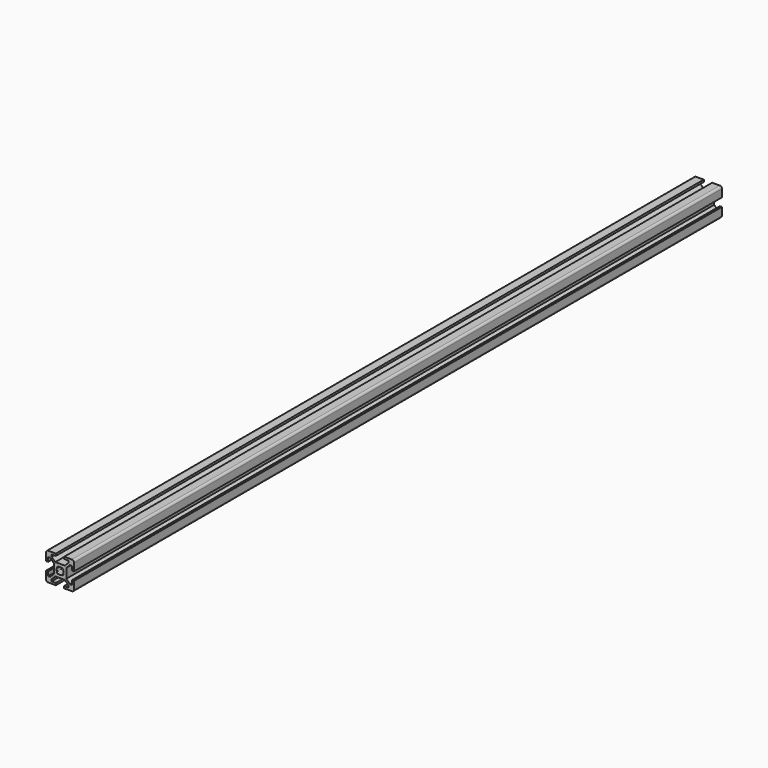
from build123d import *

# Parameters (mm, degrees)
F1_DEPTH = 580


with BuildPart() as f1:
    # F0 (on Front) → F1 (new body)
    with BuildSketch(Plane.XZ):
        with BuildLine():
            Line((3, -10), (8.5, -10))
            ThreePointArc((8.5, -10), (9.5606601718, -9.5606601718), (10, -8.5))
            Line((10, -8.5), (10, -3))
            Line((10, -3), (8.5, -3))
            Line((8.5, -3), (8.5, -6))
            Line((8.5, -6), (7.0606601718, -6))
            Line((7.0606601718, -6), (4.5, -3.4393398282))
            Line((4.5, -3.4393398282), (4.5, 3.4393398282))
            Line((4.5, 3.4393398282), (7.0606601718, 6))
            Line((7.0606601718, 6), (8.5, 6))
            Line((8.5, 6), (8.5, 3))
            Line((8.5, 3), (10, 3))
            Line((10, 3), (10, 8.5))
            ThreePointArc((10, 8.5), (9.5606601718, 9.5606601718), (8.5, 10))
            Line((8.5, 10), (3, 10))
            Line((3, 10), (3, 8.5))
            Line((3, 8.5), (6, 8.5))
            Line((6, 8.5), (6, 7.0606601718))
            Line((6, 7.0606601718), (3.4393398282, 4.5))
            Line((3.4393398282, 4.5), (-3.4393398282, 4.5))
            Line((-3.4393398282, 4.5), (-6, 7.0606601718))
            Line((-6, 7.0606601718), (-6, 8.5))
            Line((-6, 8.5), (-3, 8.5))
            Line((-3, 8.5), (-3, 10))
            Line((-3, 10), (-8.5, 10))
            ThreePointArc((-8.5, 10), (-9.5606601718, 9.5606601718), (-10, 8.5))
            Line((-10, 8.5), (-10, 3))
            Line((-10, 3), (-8.5, 3))
            Line((-8.5, 3), (-8.5, 6))
            Line((-8.5, 6), (-7.0606601718, 6))
            Line((-7.0606601718, 6), (-4.5, 3.4393398282))
            Line((-4.5, 3.4393398282), (-4.5, -3.4393398282))
            Line((-4.5, -3.4393398282), (-7.0606601718, -6))
            Line((-7.0606601718, -6), (-8.5, -6))
            Line((-8.5, -6), (-8.5, -3))
            Line((-8.5, -3), (-10, -3))
            Line((-10, -3), (-10, -8.5))
            ThreePointArc((-10, -8.5), (-9.5606601718, -9.5606601718), (-8.5, -10))
            Line((-8.5, -10), (-3, -10))
            Line((-3, -10), (-3, -8.5))
            Line((-3, -8.5), (-6, -8.5))
            Line((-6, -8.5), (-6, -7.0606601718))
            Line((-6, -7.0606601718), (-3.4393398282, -4.5))
            Line((-3.4393398282, -4.5), (3.4393398282, -4.5))
            Line((3.4393398282, -4.5), (6, -7.0606601718))
            Line((6, -7.0606601718), (6, -8.5))
            Line((6, -8.5), (3, -8.5))
            Line((3, -8.5), (3, -10))
        make_face()
        with BuildLine():
            ThreePointArc((-1.1560121095, 2.2166722813), (0, 2.5), (1.1560121095, 2.2166722813))
            Line((1.1560121095, 2.2166722813), (1.4393398282, 2.5))
            Line((1.4393398282, 2.5), (2.5, 1.4393398282))
            Line((2.5, 1.4393398282), (2.2166722813, 1.1560121095))
            ThreePointArc((2.2166722813, 1.1560121095), (2.5, 0), (2.2166722813, -1.1560121095))
            Line((2.2166722813, -1.1560121095), (2.5, -1.4393398282))
            Line((2.5, -1.4393398282), (1.4393398282, -2.5))
            Line((1.4393398282, -2.5), (1.1560121095, -2.2166722813))
            ThreePointArc((1.1560121095, -2.2166722813), (0, -2.5), (-1.1560121095, -2.2166722813))
            Line((-1.1560121095, -2.2166722813), (-1.4393398282, -2.5))
            Line((-1.4393398282, -2.5), (-2.5, -1.4393398282))
            Line((-2.5, -1.4393398282), (-2.2166722813, -1.1560121095))
            ThreePointArc((-2.2166722813, -1.1560121095), (-2.5, 0), (-2.2166722813, 1.1560121095))
            Line((-2.2166722813, 1.1560121095), (-2.5, 1.4393398282))
            Line((-2.5, 1.4393398282), (-1.4393398282, 2.5))
            Line((-1.4393398282, 2.5), (-1.1560121095, 2.2166722813))
        make_face(mode=Mode.SUBTRACT)
    extrude(amount=F1_DEPTH)


solid = f1.part
